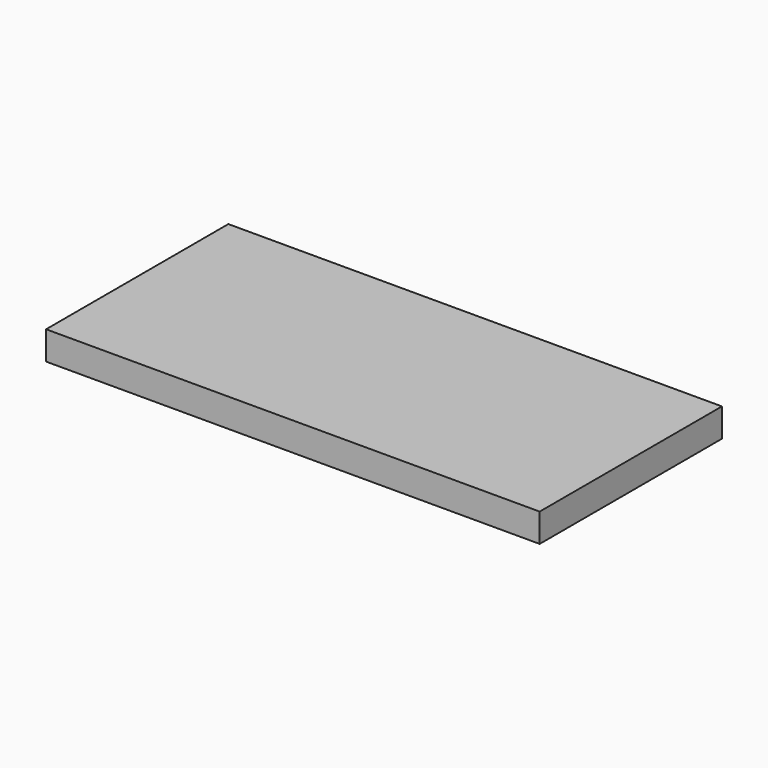
from build123d import *

# Parameters (mm, degrees)
F0_W     = 279.4
F0_H     = 152.4
F0_W_2   = 50.8
F1_DEPTH = 19.05


with BuildPart() as f1:
    # F0 (on Top) → F1 (new body)
    with BuildSketch(Plane.XY):
        with Locations((139.7, 76.2)):
            Rectangle(F0_W, F0_H)
        with Locations((-25.4, 76.2)):
            Rectangle(F0_W_2, F0_H)
    extrude(amount=F1_DEPTH)


solid = f1.part
